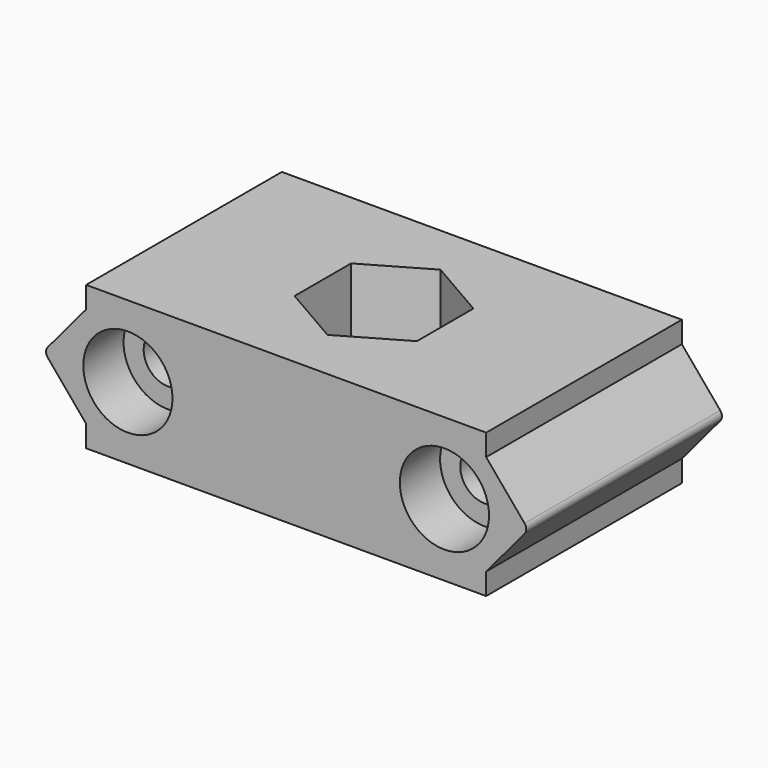
from build123d import *

# Parameters (mm, degrees)
SKETCH_R             = 1.7
PAD_DEPTH            = 8.5
SKETCH002_R          = 3.1
POCKET_DEPTH         = 3.5
POCKET001_DEPTH      = 1
POCKET001_DEPTH_BACK = -5
SKETCH004_R          = 2.7
POCKET002_DEPTH      = 5.001
FILLET_R             = 0.5


with BuildPart() as part:
    # Sketch → Pad (new body, symmetric)
    with BuildSketch(Plane.XZ):
        Polygon((-13.9, 5), (13.9, 5), (13.9, 3.5), (16.836849, 0), (13.9, -3.5), (13.9, -5), (-13.9, -5), (-13.9, -3.5), (-16.836849, 0), (-13.9, 3.5), align=None)
        with Locations((-11, 0)):
            Circle(SKETCH_R, mode=Mode.SUBTRACT)
        with Locations((11, 0)):
            Circle(SKETCH_R, mode=Mode.SUBTRACT)
    extrude(amount=PAD_DEPTH, both=True)

    # Sketch002 (on DatumPlane) → Pocket (cut)
    with BuildSketch(Plane.XZ.offset(8.5)):
        with Locations((-11, 0)):
            Circle(SKETCH002_R)
        with Locations((11, 0)):
            Circle(SKETCH002_R)
    extrude(amount=-POCKET_DEPTH, mode=Mode.SUBTRACT)

    # Sketch003 → Pocket001 (cut, two sides)
    with BuildSketch(Plane.XY) as pocket001_sk:
        Polygon((4.25, -2.453739), (4.25, 2.453739), (0, 4.907477), (-4.25, 2.453739), (-4.25, -2.453739), (0, -4.907477), align=None)
    extrude(amount=-POCKET001_DEPTH, mode=Mode.SUBTRACT)
    extrude(pocket001_sk.sketch, amount=-POCKET001_DEPTH_BACK, mode=Mode.SUBTRACT)

    # Sketch004 → Pocket002 (cut, through all)
    with BuildSketch(Plane.XY):
        Circle(SKETCH004_R)
    extrude(amount=-POCKET002_DEPTH, mode=Mode.SUBTRACT)

    # Fillet
    fillet_edges = [part.edges().sort_by_distance(p)[0] for p in [
        (16.836849, 0, 0),
        (-16.836849, 0, 0),
    ]]
    fillet(fillet_edges, radius=FILLET_R)


solid = part.part
